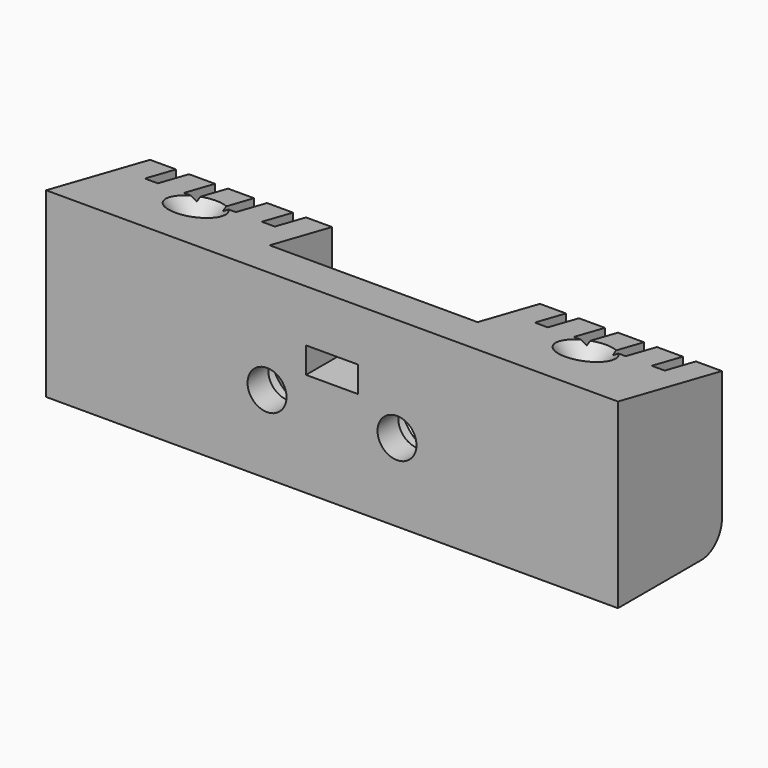
from build123d import *

# Parameters (mm, degrees)
F1_DEPTH        = 22
F2_W            = 16
F2_H            = 12
F2_H_2          = 2
F3_DEPTH        = 6
F4_W            = 1
F4_H            = 14
F4_H_2          = 12
F4_H_3          = 2
F5_DEPTH        = 3
F6_R            = 2
F8_D            = 2
F8_DEPTH        = 15
F8_CSINK_D      = 4
F8_CSINK_ANGLE  = 90
F8_TIP          = 0.600860619
F9_W            = 4
F9_H            = 2
F10_DEPTH       = 25
F11_D           = 3
F11_DEPTH       = 15
F11_CBORE_D     = 5.8
F11_CBORE_DEPTH = 2
F11_TIP         = 0.9012909285


with BuildPart() as f1:
    # F0 (on Right) → F1 (new body, symmetric)
    with BuildSketch(Plane.YZ):
        Polygon((-5, -7), (5, -7), (5, 5), (-5, 7), align=None)
    extrude(amount=F1_DEPTH, both=True)

    # F2 (on face) → F3 (cut)
    with BuildSketch(Plane(origin=(0, 5, 0), x_dir=(-1, 0, 0), z_dir=(0, 1, 0))):
        with Locations((0, -1)):
            Rectangle(F2_W, F2_H)
        with Locations((0, 6)):
            Rectangle(F2_W, F2_H_2)
    extrude(amount=-F3_DEPTH, mode=Mode.SUBTRACT)

    # F4 (on face) → F5 (cut)
    with BuildSketch(Plane(origin=(0, 5, 0), x_dir=(-1, 0, 0), z_dir=(0, 1, 0))):
        with Locations((-10.5, 0)):
            Rectangle(F4_W, F4_H)
        with Locations((-13.5, 0)):
            Rectangle(F4_W, F4_H)
        with Locations((-16.5, 0)):
            Rectangle(F4_W, F4_H)
        with Locations((-19.5, 0)):
            Rectangle(F4_W, F4_H)
        with Locations((10.5, -1)):
            Rectangle(F4_W, F4_H_2)
        with Locations((13.5, -1)):
            Rectangle(F4_W, F4_H_2)
        with Locations((16.5, -1)):
            Rectangle(F4_W, F4_H_2)
        with Locations((19.5, -1)):
            Rectangle(F4_W, F4_H_2)
        with Locations((19.5, 6)):
            Rectangle(F4_W, F4_H_3)
        with Locations((16.5, 6)):
            Rectangle(F4_W, F4_H_3)
        with Locations((13.5, 6)):
            Rectangle(F4_W, F4_H_3)
        with Locations((10.5, 6)):
            Rectangle(F4_W, F4_H_3)
    extrude(amount=-F5_DEPTH, mode=Mode.SUBTRACT)

    # F6
    f6_edges = [f1.edges().sort_by_distance(p)[0] for p in [
        (21, 5, -7),
        (18, 5, -7),
        (15, 5, -7),
        (12, 5, -7),
        (9, 5, -7),
        (-9, 5, -7),
        (-12, 5, -7),
        (-15, 5, -7),
        (-18, 5, -7),
        (-21, 5, -7),
    ]]
    fillet(f6_edges, radius=F6_R)

    # F8
    with Locations(Plane(origin=(0, 1.1538461538, 5.7692307692), x_dir=(1, 0, 0), z_dir=(0, 0.1961161351, 0.9805806757))):
        with Locations((15, -0.5257163244), (-15, -0.5257163244)):
            CounterSinkHole(F8_D / 2, F8_CSINK_D / 2, depth=F8_DEPTH, counter_sink_angle=F8_CSINK_ANGLE)
            with Locations((0, 0, -(F8_DEPTH + F8_TIP / 2))):  # 118° drill point
                Cone(0, F8_D / 2, F8_TIP, mode=Mode.SUBTRACT)

    # F9 (on face) → F10 (cut)
    with BuildSketch(Plane(origin=(0, -1, 0), x_dir=(-1, 0, 0), z_dir=(0, 1, 0))):
        with Locations((0, 2)):
            Rectangle(F9_W, F9_H)
    extrude(amount=-F10_DEPTH, mode=Mode.SUBTRACT)

    # F11
    with Locations(Plane(origin=(0, -1, 0), x_dir=(-1, 0, 0), z_dir=(0, 1, 0))):
        with Locations((-5, -1), (5, -1)):
            CounterBoreHole(F11_D / 2, F11_CBORE_D / 2, F11_CBORE_DEPTH, depth=F11_DEPTH)
            with Locations((0, 0, -(F11_DEPTH + F11_TIP / 2))):  # 118° drill point
                Cone(0, F11_D / 2, F11_TIP, mode=Mode.SUBTRACT)


solid = f1.part
